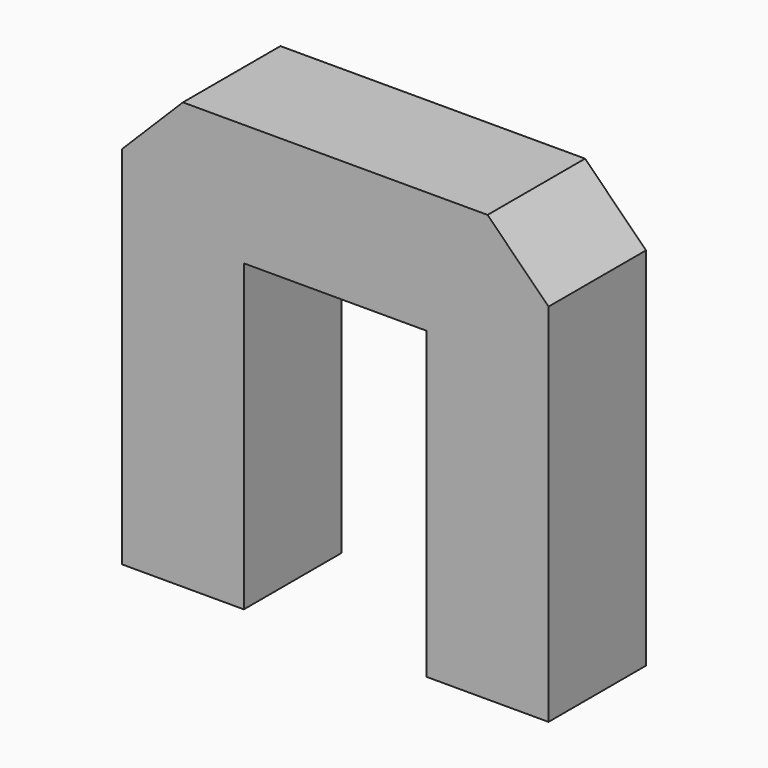
from build123d import *

# Parameters (mm, degrees)
BOX003_W              = 3
BOX003_H              = 2
BOX003_DEPTH          = 5
BOX002_W              = 7
BOX002_H              = 2
BOX002_DEPTH          = 7
CHAMFER007001002_SIZE = 1


with BuildPart() as cube003:
    # Box003 → Box003 (new body)
    with BuildSketch(Plane(origin=(-1.5, -2, 0), x_dir=(1, 0, 0), z_dir=(0, 0, 1))):
        with Locations((1.5, 1)):
            Rectangle(BOX003_W, BOX003_H)
    extrude(amount=BOX003_DEPTH)


with BuildPart() as chamfer007001002:
    # Box002 → Box002 (new body)
    with BuildSketch(Plane(origin=(-3.5, -2, 0), x_dir=(1, 0, 0), z_dir=(0, 0, 1))):
        with Locations((3.5, 1)):
            Rectangle(BOX002_W, BOX002_H)
    extrude(amount=BOX002_DEPTH)

    # Cut001002: cut Cube003
    add(cube003.part, mode=Mode.SUBTRACT)

    # Chamfer007001002
    chamfer007001002_edges = [chamfer007001002.edges().sort_by_distance(p)[0] for p in [
        (-3.5, -1, 7),
        (3.5, -1, 7),
    ]]
    chamfer(chamfer007001002_edges, length=CHAMFER007001002_SIZE)


solid = chamfer007001002.part
